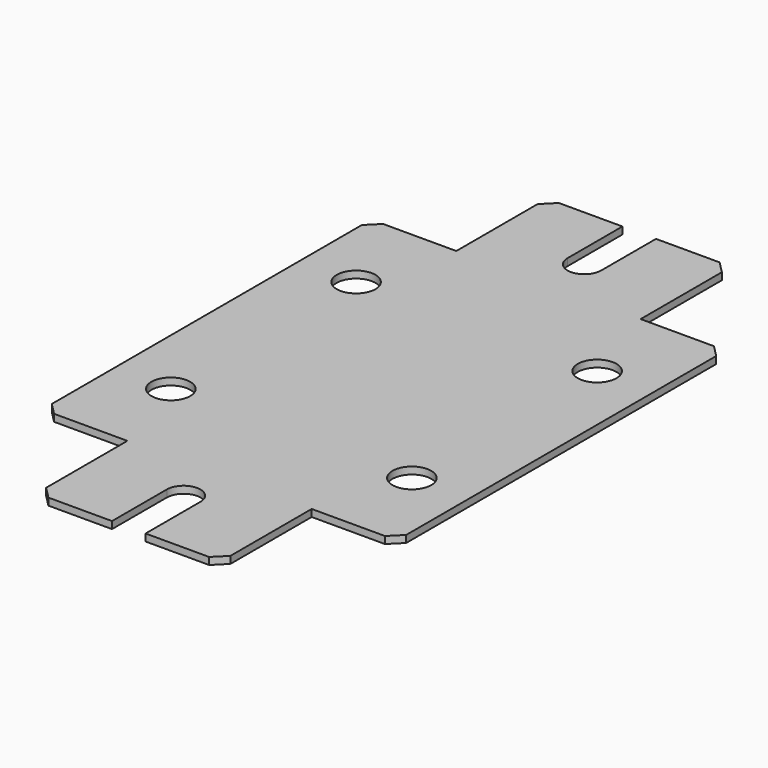
from build123d import *

# Parameters (mm, degrees)
F0_R     = 4.1
F1_DEPTH = 1.5
F2_SIZE  = 2.5


with BuildPart() as f1:
    # F0 (on Top) → F1 (new body)
    with BuildSketch(Plane.XY):
        with BuildLine():
            Line((3.55, -67.5), (19.5, -67.5))
            Line((19.5, -67.5), (19.5, -43.5))
            Line((19.5, -43.5), (37.5, -43.5))
            Line((37.5, -43.5), (37.5, 43.5))
            Line((37.5, 43.5), (19.5, 43.5))
            Line((19.5, 43.5), (19.5, 67.5))
            Line((19.5, 67.5), (3.55, 67.5))
            Line((3.55, 67.5), (3.55, 53))
            ThreePointArc((3.55, 53), (0, 49.45), (-3.55, 53))
            Line((-3.55, 53), (-3.55, 67.5))
            Line((-3.55, 67.5), (-19.5, 67.5))
            Line((-19.5, 67.5), (-19.5, 43.5))
            Line((-19.5, 43.5), (-37.5, 43.5))
            Line((-37.5, 43.5), (-37.5, -43.5))
            Line((-37.5, -43.5), (-19.5, -43.5))
            Line((-19.5, -43.5), (-19.5, -67.5))
            Line((-19.5, -67.5), (-3.55, -67.5))
            Line((-3.55, -67.5), (-3.55, -53))
            ThreePointArc((-3.55, -53), (0, -49.45), (3.55, -53))
            Line((3.55, -53), (3.55, -67.5))
        make_face()
        with Locations((-25.5, -24.5)):
            Circle(F0_R, mode=Mode.SUBTRACT)
        with Locations((25.5, -24.5)):
            Circle(F0_R, mode=Mode.SUBTRACT)
        with Locations((-25.5, 24.5)):
            Circle(F0_R, mode=Mode.SUBTRACT)
        with Locations((25.5, 24.5)):
            Circle(F0_R, mode=Mode.SUBTRACT)
    extrude(amount=F1_DEPTH)

    # F2
    f2_edges = [f1.edges().sort_by_distance(p)[0] for p in [
        (-37.5, 43.5, 0.75),
        (-19.5, 67.5, 0.75),
        (19.5, 67.5, 0.75),
        (37.5, 43.5, 0.75),
        (-37.5, -43.5, 0.75),
        (-19.5, -67.5, 0.75),
        (19.5, -67.5, 0.75),
        (37.5, -43.5, 0.75),
    ]]
    chamfer(f2_edges, length=F2_SIZE)


solid = f1.part
